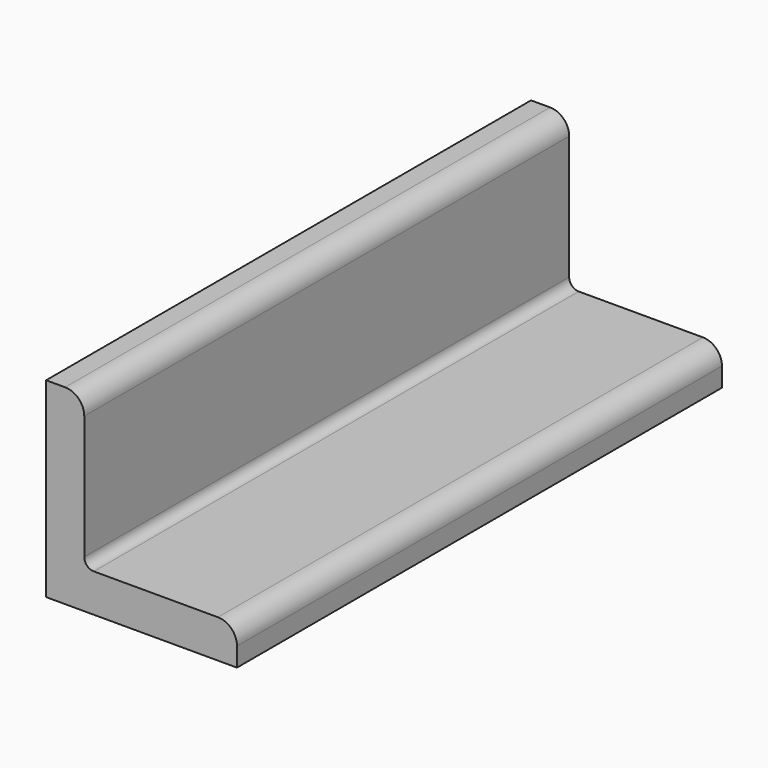
from build123d import *

# Parameters (mm, degrees)
F1_DEPTH = 50.8


with BuildPart() as f1:
    # F0 (on Front) → F1 (new body, symmetric)
    with BuildSketch(Plane.XZ):
        with BuildLine():
            Line((3.1999999997, 32), (0, 32))
            Line((0, 32), (0, 0))
            Line((0, 0), (31.9999999997, 0))
            Line((31.9999999997, 0), (31.9999999997, 3.2))
            ThreePointArc((31.9999999997, 3.2), (31.0627416995, 5.4627416998), (28.7999999997, 6.4))
            Line((28.7999999997, 6.4), (7.9999999997, 6.4))
            ThreePointArc((7.9999999997, 6.4), (6.8686291498, 6.8686291501), (6.3999999997, 8))
            Line((6.3999999997, 8), (6.3999999997, 28.8))
            ThreePointArc((6.3999999997, 28.8), (5.4627416995, 31.0627416998), (3.1999999997, 32))
        make_face()
    extrude(amount=F1_DEPTH, both=True)


solid = f1.part
